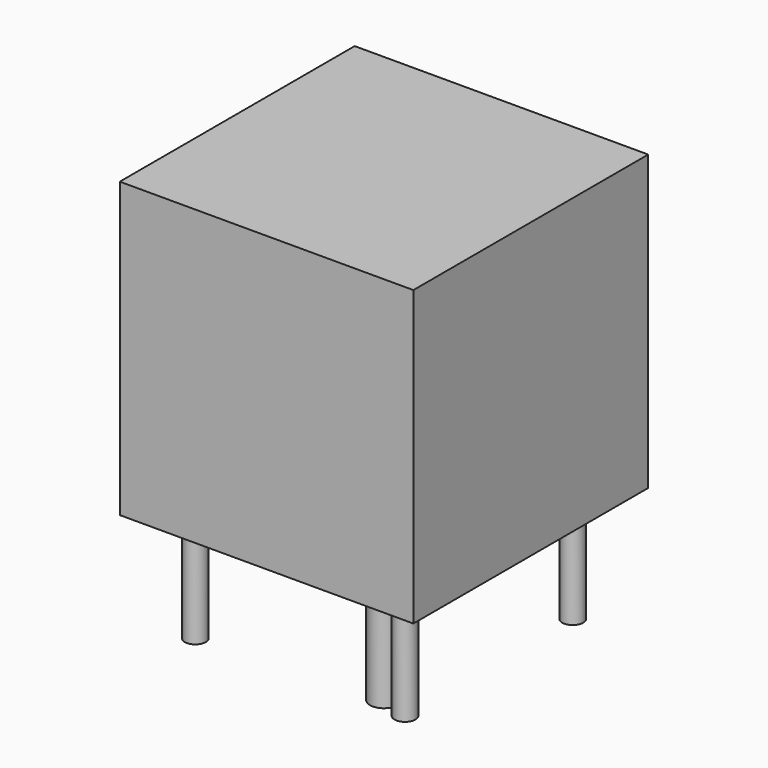
from build123d import *

# Parameters (mm, degrees)
F0_W     = 42
F0_H     = 42
F1_DEPTH = 42
F2_R     = 2
F3_DEPTH = 25
F4_R     = 1.5
F5_DEPTH = 16


with BuildPart() as f1:
    # F0 (on Top) → F1 (new body)
    with BuildSketch(Plane.XY):
        Rectangle(F0_W, F0_H)
    extrude(amount=F1_DEPTH)

    # F2 (on face) → F3 (join)
    with BuildSketch(Plane(origin=(0, 0, 0), x_dir=(1, 0, 0), z_dir=(0, 0, -1))):
        Circle(F2_R)
    extrude(amount=F3_DEPTH)

    # F4 (on face) → F5 (join)
    with BuildSketch(Plane(origin=(0, 0, 0), x_dir=(1, 0, 0), z_dir=(0, 0, -1))):
        with Locations((-15, 15)):
            Circle(F4_R)
        with Locations((15, 15)):
            Circle(F4_R)
        with Locations((15, -15)):
            Circle(F4_R)
        with Locations((-15, -15)):
            Circle(F4_R)
    extrude(amount=F5_DEPTH)


solid = f1.part
